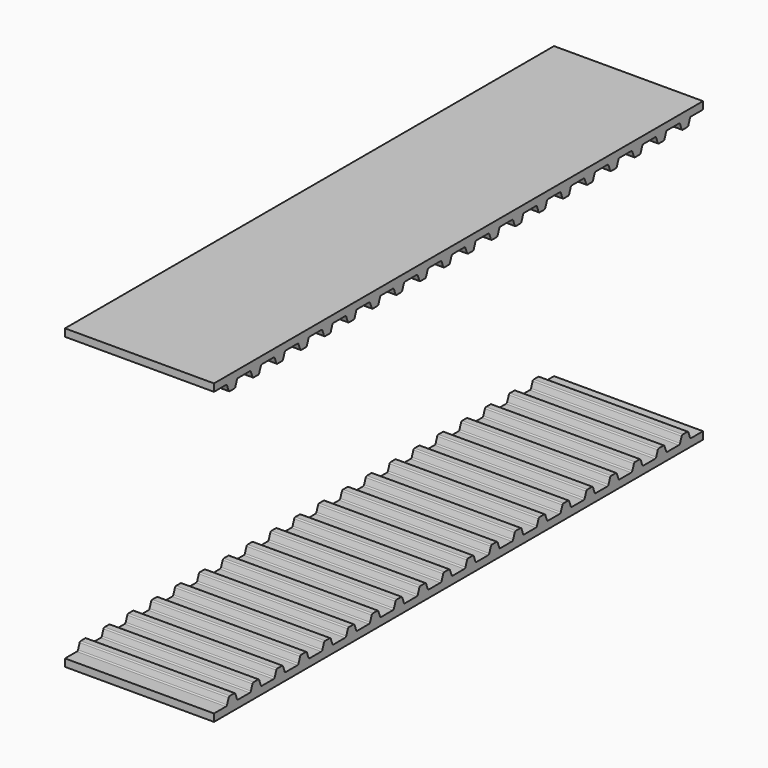
from build123d import *

# Parameters (mm, degrees)
F1_DEPTH      = 12.7
F1_DEPTH_BACK = 12.7


with BuildPart() as f1:
    # F0 (on Right) → F1 (new body, two sides)
    with BuildSketch(Plane.YZ) as f1_sk:
        with BuildLine():
            Line((78.795948, 25.4), (-25.4, 25.4))
            Line((-25.4, 25.4), (-25.4, 24.13))
            Line((-25.4, 24.13), (-22.86, 24.13))
            ThreePointArc((-22.86, 24.13), (-22.714312, 24.084065), (-22.621318, 23.962873))
            Line((-22.621318, 23.962873), (-22.280734, 23.027127))
            ThreePointArc((-22.280734, 23.027127), (-22.187741, 22.905935), (-22.042052, 22.86))
            Line((-22.042052, 22.86), (-21.082, 22.86))
            ThreePointArc((-21.082, 22.86), (-20.936312, 22.905935), (-20.843318, 23.027127))
            Line((-20.843318, 23.027127), (-20.502734, 23.962873))
            ThreePointArc((-20.502734, 23.962873), (-20.409741, 24.084065), (-20.264052, 24.13))
            Line((-20.264052, 24.13), (-17.78, 24.13))
            ThreePointArc((-17.78, 24.13), (-17.634312, 24.084065), (-17.541318, 23.962873))
            Line((-17.541318, 23.962873), (-17.200734, 23.027127))
            ThreePointArc((-17.200734, 23.027127), (-17.107741, 22.905935), (-16.962052, 22.86))
            Line((-16.962052, 22.86), (-16.002, 22.86))
            ThreePointArc((-16.002, 22.86), (-15.856312, 22.905935), (-15.763318, 23.027127))
            Line((-15.763318, 23.027127), (-15.422734, 23.962873))
            ThreePointArc((-15.422734, 23.962873), (-15.329741, 24.084065), (-15.184052, 24.13))
            Line((-15.184052, 24.13), (-12.7, 24.13))
            ThreePointArc((-12.7, 24.13), (-12.554312, 24.084065), (-12.461318, 23.962873))
            Line((-12.461318, 23.962873), (-12.120734, 23.027127))
            ThreePointArc((-12.120734, 23.027127), (-12.027741, 22.905935), (-11.882052, 22.86))
            Line((-11.882052, 22.86), (-10.922, 22.86))
            ThreePointArc((-10.922, 22.86), (-10.776312, 22.905935), (-10.683318, 23.027127))
            Line((-10.683318, 23.027127), (-10.342734, 23.962873))
            ThreePointArc((-10.342734, 23.962873), (-10.249741, 24.084065), (-10.104052, 24.13))
            Line((-10.104052, 24.13), (-7.62, 24.13))
            ThreePointArc((-7.62, 24.13), (-7.474312, 24.084065), (-7.381318, 23.962873))
            Line((-7.381318, 23.962873), (-7.040734, 23.027127))
            ThreePointArc((-7.040734, 23.027127), (-6.947741, 22.905935), (-6.802052, 22.86))
            Line((-6.802052, 22.86), (-5.842, 22.86))
            ThreePointArc((-5.842, 22.86), (-5.696312, 22.905935), (-5.603318, 23.027127))
            Line((-5.603318, 23.027127), (-5.262734, 23.962873))
            ThreePointArc((-5.262734, 23.962873), (-5.169741, 24.084065), (-5.024052, 24.13))
            Line((-5.024052, 24.13), (-2.54, 24.13))
            ThreePointArc((-2.54, 24.13), (-2.394312, 24.084065), (-2.301318, 23.962873))
            Line((-2.301318, 23.962873), (-1.960734, 23.027127))
            ThreePointArc((-1.960734, 23.027127), (-1.867741, 22.905935), (-1.722052, 22.86))
            Line((-1.722052, 22.86), (-0.762, 22.86))
            ThreePointArc((-0.762, 22.86), (-0.616312, 22.905935), (-0.523318, 23.027127))
            Line((-0.523318, 23.027127), (-0.182734, 23.962873))
            ThreePointArc((-0.182734, 23.962873), (-0.089741, 24.084065), (0.055948, 24.13))
            Line((0.055948, 24.13), (2.54, 24.13))
            ThreePointArc((2.54, 24.13), (2.685688, 24.084065), (2.778682, 23.962873))
            Line((2.778682, 23.962873), (3.119266, 23.027127))
            ThreePointArc((3.119266, 23.027127), (3.212259, 22.905935), (3.357948, 22.86))
            Line((3.357948, 22.86), (4.318, 22.86))
            ThreePointArc((4.318, 22.86), (4.463688, 22.905935), (4.556682, 23.027127))
            Line((4.556682, 23.027127), (4.897266, 23.962873))
            ThreePointArc((4.897266, 23.962873), (4.990259, 24.084065), (5.135948, 24.13))
            Line((5.135948, 24.13), (7.62, 24.13))
            ThreePointArc((7.62, 24.13), (7.765688, 24.084065), (7.858682, 23.962873))
            Line((7.858682, 23.962873), (8.199266, 23.027127))
            ThreePointArc((8.199266, 23.027127), (8.292259, 22.905935), (8.437948, 22.86))
            Line((8.437948, 22.86), (9.398, 22.86))
            ThreePointArc((9.398, 22.86), (9.543688, 22.905935), (9.636682, 23.027127))
            Line((9.636682, 23.027127), (9.977266, 23.962873))
            ThreePointArc((9.977266, 23.962873), (10.070259, 24.084065), (10.215948, 24.13))
            Line((10.215948, 24.13), (12.7, 24.13))
            ThreePointArc((12.7, 24.13), (12.845688, 24.084065), (12.938682, 23.962873))
            Line((12.938682, 23.962873), (13.279266, 23.027127))
            ThreePointArc((13.279266, 23.027127), (13.372259, 22.905935), (13.517948, 22.86))
            Line((13.517948, 22.86), (14.478, 22.86))
            ThreePointArc((14.478, 22.86), (14.623688, 22.905935), (14.716682, 23.027127))
            Line((14.716682, 23.027127), (15.057266, 23.962873))
            ThreePointArc((15.057266, 23.962873), (15.150259, 24.084065), (15.295948, 24.13))
            Line((15.295948, 24.13), (17.78, 24.13))
            ThreePointArc((17.78, 24.13), (17.925688, 24.084065), (18.018682, 23.962873))
            Line((18.018682, 23.962873), (18.359266, 23.027127))
            ThreePointArc((18.359266, 23.027127), (18.452259, 22.905935), (18.597948, 22.86))
            Line((18.597948, 22.86), (19.558, 22.86))
            ThreePointArc((19.558, 22.86), (19.703688, 22.905935), (19.796682, 23.027127))
            Line((19.796682, 23.027127), (20.137266, 23.962873))
            ThreePointArc((20.137266, 23.962873), (20.230259, 24.084065), (20.375948, 24.13))
            Line((20.375948, 24.13), (22.86, 24.13))
            ThreePointArc((22.86, 24.13), (23.005688, 24.084065), (23.098682, 23.962873))
            Line((23.098682, 23.962873), (23.439266, 23.027127))
            ThreePointArc((23.439266, 23.027127), (23.532259, 22.905935), (23.677948, 22.86))
            Line((23.677948, 22.86), (24.638, 22.86))
            ThreePointArc((24.638, 22.86), (24.783688, 22.905935), (24.876682, 23.027127))
            Line((24.876682, 23.027127), (25.217266, 23.962873))
            ThreePointArc((25.217266, 23.962873), (25.310259, 24.084065), (25.455948, 24.13))
            Line((25.455948, 24.13), (27.94, 24.13))
            ThreePointArc((27.94, 24.13), (28.085688, 24.084065), (28.178682, 23.962873))
            Line((28.178682, 23.962873), (28.519266, 23.027127))
            ThreePointArc((28.519266, 23.027127), (28.612259, 22.905935), (28.757948, 22.86))
            Line((28.757948, 22.86), (29.718, 22.86))
            ThreePointArc((29.718, 22.86), (29.863688, 22.905935), (29.956682, 23.027127))
            Line((29.956682, 23.027127), (30.297266, 23.962873))
            ThreePointArc((30.297266, 23.962873), (30.390259, 24.084065), (30.535948, 24.13))
            Line((30.535948, 24.13), (33.02, 24.13))
            ThreePointArc((33.02, 24.13), (33.165688, 24.084065), (33.258682, 23.962873))
            Line((33.258682, 23.962873), (33.599266, 23.027127))
            ThreePointArc((33.599266, 23.027127), (33.692259, 22.905935), (33.837948, 22.86))
            Line((33.837948, 22.86), (34.798, 22.86))
            ThreePointArc((34.798, 22.86), (34.943688, 22.905935), (35.036682, 23.027127))
            Line((35.036682, 23.027127), (35.377266, 23.962873))
            ThreePointArc((35.377266, 23.962873), (35.470259, 24.084065), (35.615948, 24.13))
            Line((35.615948, 24.13), (38.1, 24.13))
            ThreePointArc((38.1, 24.13), (38.245688, 24.084065), (38.338682, 23.962873))
            Line((38.338682, 23.962873), (38.679266, 23.027127))
            ThreePointArc((38.679266, 23.027127), (38.772259, 22.905935), (38.917948, 22.86))
            Line((38.917948, 22.86), (39.878, 22.86))
            ThreePointArc((39.878, 22.86), (40.023688, 22.905935), (40.116682, 23.027127))
            Line((40.116682, 23.027127), (40.457266, 23.962873))
            ThreePointArc((40.457266, 23.962873), (40.550259, 24.084065), (40.695948, 24.13))
            Line((40.695948, 24.13), (43.18, 24.13))
            ThreePointArc((43.18, 24.13), (43.325688, 24.084065), (43.418682, 23.962873))
            Line((43.418682, 23.962873), (43.759266, 23.027127))
            ThreePointArc((43.759266, 23.027127), (43.852259, 22.905935), (43.997948, 22.86))
            Line((43.997948, 22.86), (44.958, 22.86))
            ThreePointArc((44.958, 22.86), (45.103688, 22.905935), (45.196682, 23.027127))
            Line((45.196682, 23.027127), (45.537266, 23.962873))
            ThreePointArc((45.537266, 23.962873), (45.630259, 24.084065), (45.775948, 24.13))
            Line((45.775948, 24.13), (48.26, 24.13))
            ThreePointArc((48.26, 24.13), (48.405688, 24.084065), (48.498682, 23.962873))
            Line((48.498682, 23.962873), (48.839266, 23.027127))
            ThreePointArc((48.839266, 23.027127), (48.932259, 22.905935), (49.077948, 22.86))
            Line((49.077948, 22.86), (50.038, 22.86))
            ThreePointArc((50.038, 22.86), (50.183688, 22.905935), (50.276682, 23.027127))
            Line((50.276682, 23.027127), (50.617266, 23.962873))
            ThreePointArc((50.617266, 23.962873), (50.710259, 24.084065), (50.855948, 24.13))
            Line((50.855948, 24.13), (53.34, 24.13))
            ThreePointArc((53.34, 24.13), (53.485688, 24.084065), (53.578682, 23.962873))
            Line((53.578682, 23.962873), (53.919266, 23.027127))
            ThreePointArc((53.919266, 23.027127), (54.012259, 22.905935), (54.157948, 22.86))
            Line((54.157948, 22.86), (55.118, 22.86))
            ThreePointArc((55.118, 22.86), (55.263688, 22.905935), (55.356682, 23.027127))
            Line((55.356682, 23.027127), (55.697266, 23.962873))
            ThreePointArc((55.697266, 23.962873), (55.790259, 24.084065), (55.935948, 24.13))
            Line((55.935948, 24.13), (58.42, 24.13))
            ThreePointArc((58.42, 24.13), (58.565688, 24.084065), (58.658682, 23.962873))
            Line((58.658682, 23.962873), (58.999266, 23.027127))
            ThreePointArc((58.999266, 23.027127), (59.092259, 22.905935), (59.237948, 22.86))
            Line((59.237948, 22.86), (60.198, 22.86))
            ThreePointArc((60.198, 22.86), (60.343688, 22.905935), (60.436682, 23.027127))
            Line((60.436682, 23.027127), (60.777266, 23.962873))
            ThreePointArc((60.777266, 23.962873), (60.870259, 24.084065), (61.015948, 24.13))
            Line((61.015948, 24.13), (63.5, 24.13))
            ThreePointArc((63.5, 24.13), (63.645688, 24.084065), (63.738682, 23.962873))
            Line((63.738682, 23.962873), (64.079266, 23.027127))
            ThreePointArc((64.079266, 23.027127), (64.172259, 22.905935), (64.317948, 22.86))
            Line((64.317948, 22.86), (65.278, 22.86))
            ThreePointArc((65.278, 22.86), (65.423688, 22.905935), (65.516682, 23.027127))
            Line((65.516682, 23.027127), (65.857266, 23.962873))
            ThreePointArc((65.857266, 23.962873), (65.950259, 24.084065), (66.095948, 24.13))
            Line((66.095948, 24.13), (68.58, 24.13))
            ThreePointArc((68.58, 24.13), (68.725688, 24.084065), (68.818682, 23.962873))
            Line((68.818682, 23.962873), (69.159266, 23.027127))
            ThreePointArc((69.159266, 23.027127), (69.252259, 22.905935), (69.397948, 22.86))
            Line((69.397948, 22.86), (70.358, 22.86))
            ThreePointArc((70.358, 22.86), (70.503688, 22.905935), (70.596682, 23.027127))
            Line((70.596682, 23.027127), (70.937266, 23.962873))
            ThreePointArc((70.937266, 23.962873), (71.030259, 24.084065), (71.175948, 24.13))
            Line((71.175948, 24.13), (73.66, 24.13))
            ThreePointArc((73.66, 24.13), (73.805688, 24.084065), (73.898682, 23.962873))
            Line((73.898682, 23.962873), (74.239266, 23.027127))
            ThreePointArc((74.239266, 23.027127), (74.332259, 22.905935), (74.477948, 22.86))
            Line((74.477948, 22.86), (75.438, 22.86))
            ThreePointArc((75.438, 22.86), (75.583688, 22.905935), (75.676682, 23.027127))
            Line((75.676682, 23.027127), (76.017266, 23.962873))
            ThreePointArc((76.017266, 23.962873), (76.110259, 24.084065), (76.255948, 24.13))
            Line((76.255948, 24.13), (78.795948, 24.13))
            Line((78.795948, 24.13), (78.795948, 25.4))
        make_face()
    extrude(amount=F1_DEPTH)
    extrude(f1_sk.sketch, amount=-F1_DEPTH_BACK)


with BuildPart() as f2_1:
    # F2: instance of F1
    add(f1.part.mirror(Plane.XY))


solid = Compound([f1.part, f2_1.part])
